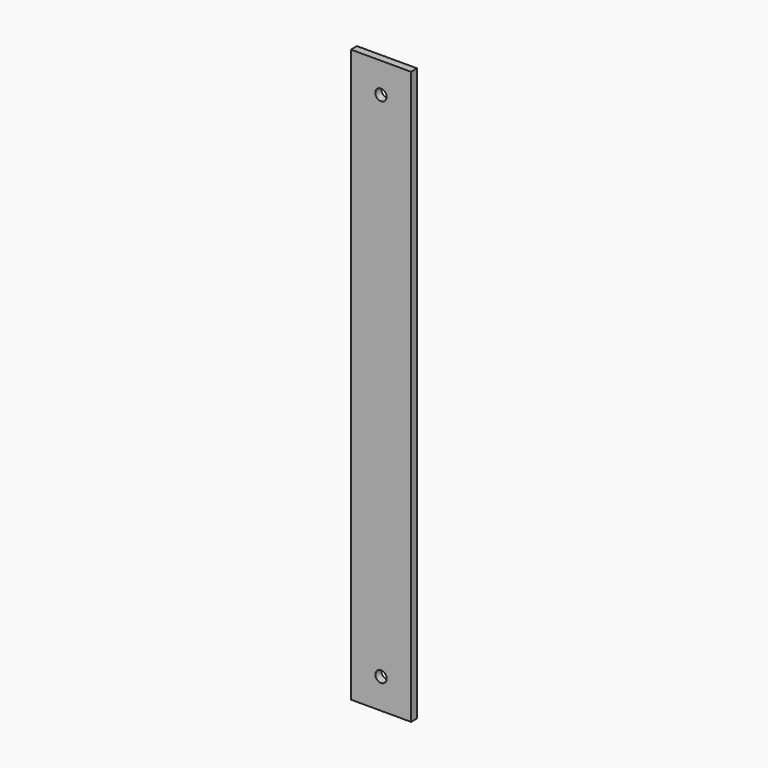
from build123d import *

# Parameters (mm, degrees)
F0_W     = 6.35
F0_H     = 482.6
F1_DEPTH = 25.4
F2_R     = 4.7625
F3_DEPTH = 6.351


with BuildPart() as f1:
    # F0 (on Right) → F1 (new body, symmetric)
    with BuildSketch(Plane.YZ):
        with Locations((-33.058052, -5.537736)):
            Rectangle(F0_W, F0_H)
    extrude(amount=F1_DEPTH, both=True)

    # F2 (on face) → F3 (cut, through all)
    with BuildSketch(Plane.XZ.offset(36.233052)):
        with Locations((0, 210.362264)):
            Circle(F2_R)
        with Locations((0, -221.437736)):
            Circle(F2_R)
    extrude(amount=-F3_DEPTH, mode=Mode.SUBTRACT)


solid = f1.part
